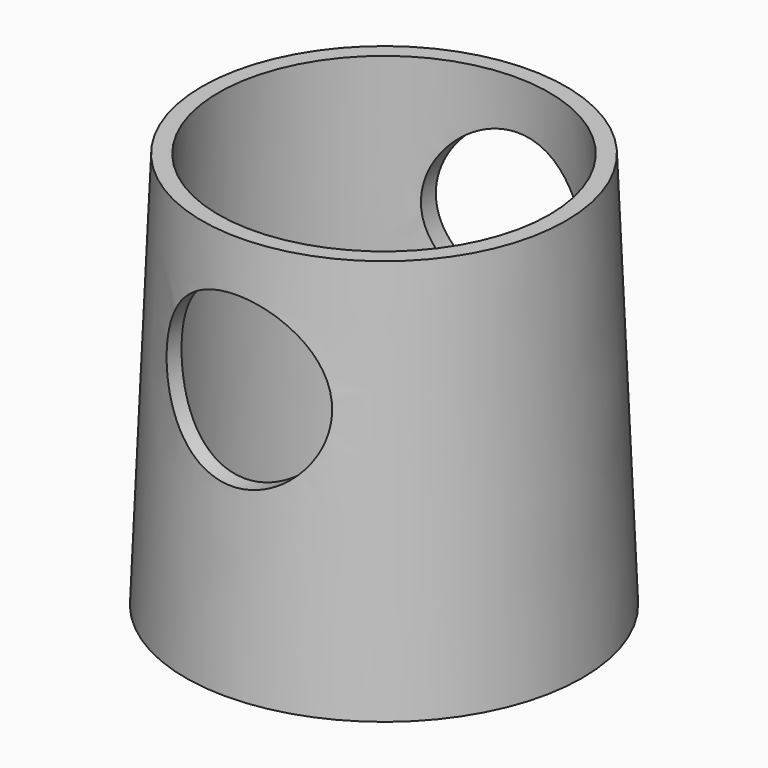
from build123d import *

# Parameters (mm, degrees)
F3_R          = 69.85
F4_R          = 76.2
F1_R          = 63.5
F2_R          = 69.85
F7_R          = 31.75
F8_DEPTH      = 127
F8_DEPTH_BACK = 127


with BuildPart() as f5:
    # F3 (on offset) → F5 section 0
    with BuildSketch(Plane.XY.offset(152.4)):
        Circle(F3_R)
    # F4 (on face) → F5 section 1
    with BuildSketch(Plane.XY):
        Circle(F4_R)
    loft()

    # F1 (on offset) → F6 section 0
    with BuildSketch(Plane.XY.offset(152.4)):
        Circle(F1_R)
    # F2 (on Top) → F6 section 1
    with BuildSketch(Plane.XY):
        Circle(F2_R)
    loft(mode=Mode.SUBTRACT)

    # F7 (on Front) → F8 (cut, two sides)
    with BuildSketch(Plane.XZ) as f8_sk:
        with Locations((0, 101.6)):
            Circle(F7_R)
    extrude(amount=F8_DEPTH, mode=Mode.SUBTRACT)
    extrude(f8_sk.sketch, amount=-F8_DEPTH_BACK, mode=Mode.SUBTRACT)


solid = f5.part
